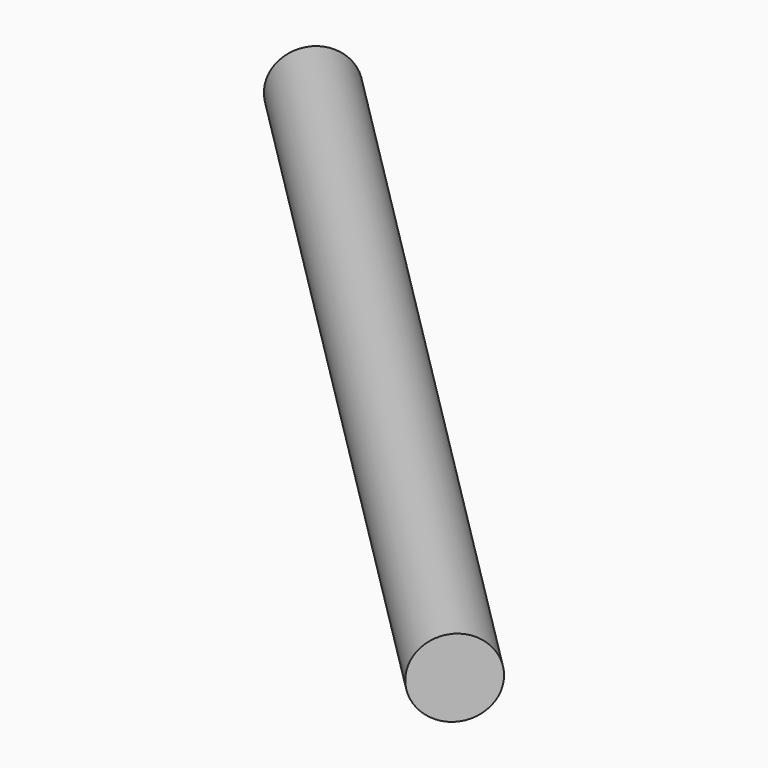
from build123d import *

# Parameters (mm, degrees)
F0_R     = 3.884455
F1_DEPTH = 100
F2_ANGLE = 45


with BuildPart() as f1:
    # F0 (on Front) → F1 (new body)
    with BuildSketch(Plane.XZ):
        Circle(F0_R)
    extrude(amount=F1_DEPTH)


with BuildPart() as f1_1:
    # F2: moved
    add(f1.part.rotate(Axis((0, 0, 7.508683), (0, 0, 1)), F2_ANGLE))


solid = f1_1.part
